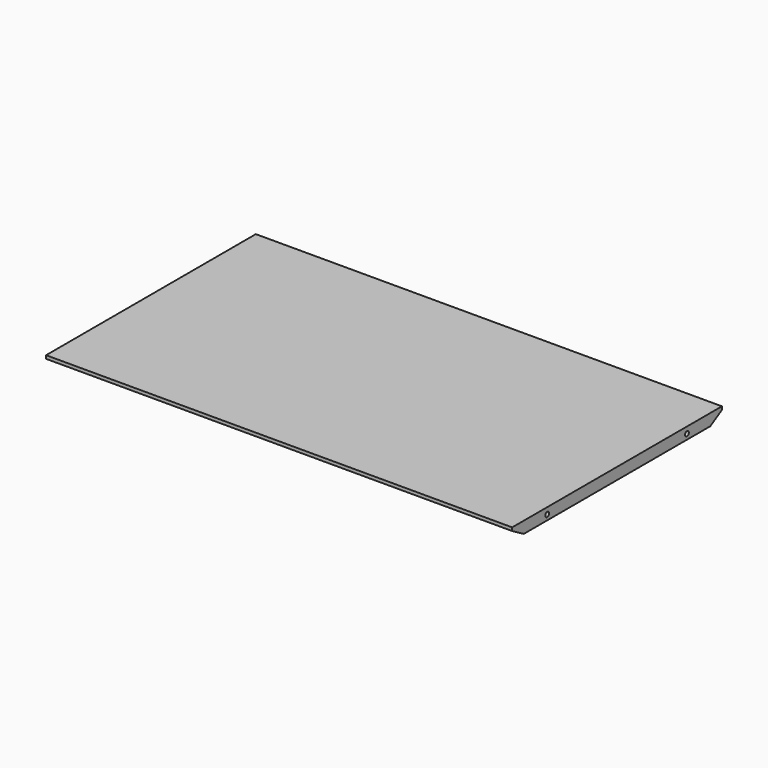
from build123d import *

# Parameters (mm, degrees)
F0_W           = 800
F0_H           = 450
F1_DEPTH       = 20
F3_START       = -400.001
F3_DEPTH       = 800.002
F6_D           = 8
F6_DEPTH       = 30
F6_TIP         = 2.4034424761
F6_ON_F5_D     = 8
F6_ON_F5_DEPTH = 30
F6_ON_F5_TIP   = 2.4034424761


with BuildPart() as f1:
    # F0 (on Top) → F1 (new body)
    with BuildSketch(Plane.XY):
        Rectangle(F0_W, F0_H)
    extrude(amount=F1_DEPTH)

    # F2 (on Right) → F3 (intersect)
    with BuildSketch(Plane.YZ.offset(F3_START)):
        Polygon((-200, 0), (200, 0), (234.6410161514, 20), (-234.6410161514, 20), align=None)
    extrude(amount=F3_DEPTH, mode=Mode.INTERSECT)

    # F6
    with Locations(Plane(origin=(-400, 0, 0), x_dir=(0, -1, 0), z_dir=(-1, 0, 0))):
        with Locations((-150, 9), (150, 9)):
            Hole(F6_D / 2, depth=F6_DEPTH)
            with Locations((0, 0, -(F6_DEPTH + F6_TIP / 2))):  # 118° drill point
                Cone(0, F6_D / 2, F6_TIP, mode=Mode.SUBTRACT)

    # F6 on F5
    with Locations(Plane.YZ.offset(400)):
        with Locations((150, 9), (-150, 9)):
            Hole(F6_ON_F5_D / 2, depth=F6_ON_F5_DEPTH)
            with Locations((0, 0, -(F6_ON_F5_DEPTH + F6_ON_F5_TIP / 2))):  # 118° drill point
                Cone(0, F6_ON_F5_D / 2, F6_ON_F5_TIP, mode=Mode.SUBTRACT)


solid = f1.part
